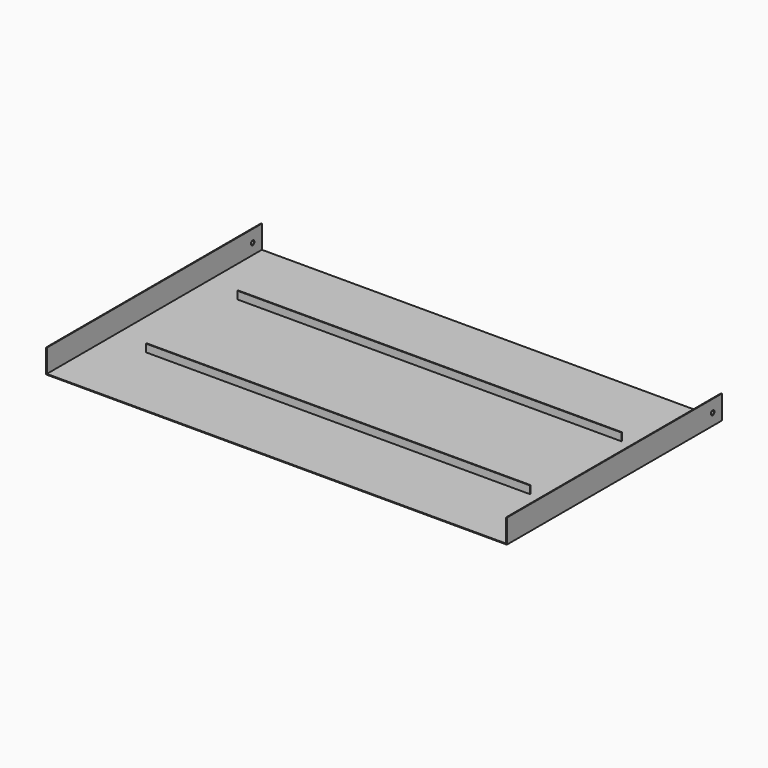
from build123d import *

# Parameters (mm, degrees)
F0_W     = 600
F0_H     = 350
F1_DEPTH = 1
F2_W     = 1
F2_H     = 350
F3_DEPTH = 30
F4_R     = 2.888971
F5_DEPTH = 735
F6_W     = 500
F6_H     = 1
F7_DEPTH = 10


with BuildPart() as f1:
    # F0 (on Top) → F1 (new body)
    with BuildSketch(Plane.XY):
        with Locations((3.478525, 2.822831)):
            Rectangle(F0_W, F0_H)
    extrude(amount=F1_DEPTH)

    # F2 (on face) → F3 (join)
    with BuildSketch(Plane.XY.offset(1)):
        with Locations((-296.021475, 2.822831)):
            Rectangle(F2_W, F2_H)
        with Locations((302.978525, 2.822831)):
            Rectangle(F2_W, F2_H)
    extrude(amount=F3_DEPTH)

    # F4 (on face) → F5 (cut)
    with BuildSketch(Plane(origin=(-296.521475, 0, 0), x_dir=(0, -1, 0), z_dir=(-1, 0, 0))):
        with Locations((-162.822831, 15)):
            Circle(F4_R)
    extrude(amount=-F5_DEPTH, mode=Mode.SUBTRACT)

    # F6 (on face) → F7 (join)
    with BuildSketch(Plane.XY.offset(1)):
        with Locations((3.478525, 77.322831)):
            Rectangle(F6_W, F6_H)
        with Locations((3.478525, -71.677169)):
            Rectangle(F6_W, F6_H)
    extrude(amount=F7_DEPTH)


solid = f1.part
